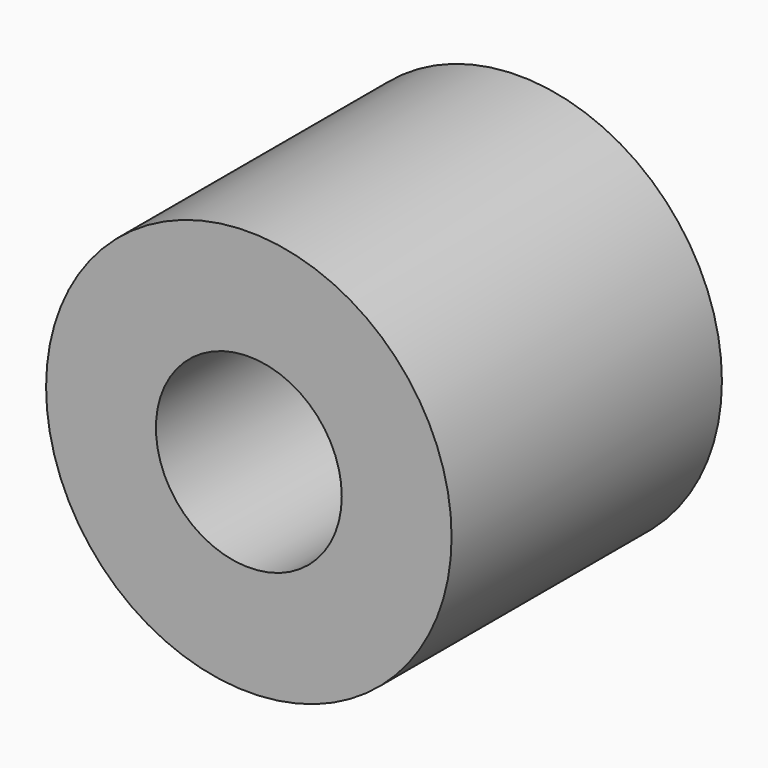
from build123d import *

# Parameters (mm, degrees)
F0_R     = 24
F0_R_2   = 11
F1_DEPTH = 12
F2_R     = 24
F2_R_2   = 11
F3_DEPTH = 16
F4_R     = 24
F4_R_2   = 11
F5_DEPTH = 12


with BuildPart() as f1:
    # F0 (on Front) → F1 (new body)
    with BuildSketch(Plane.XZ):
        Circle(F0_R)
        Circle(F0_R_2, mode=Mode.SUBTRACT)
    extrude(amount=F1_DEPTH)

    # F2 (on face) → F3 (join)
    with BuildSketch(Plane.XZ.offset(12)):
        Circle(F2_R)
        Circle(F2_R_2, mode=Mode.SUBTRACT)
    extrude(amount=F3_DEPTH)

    # F4 (on face) → F5 (join)
    with BuildSketch(Plane.XZ.offset(28)):
        Circle(F4_R)
        Circle(F4_R_2, mode=Mode.SUBTRACT)
    extrude(amount=F5_DEPTH)


solid = f1.part
